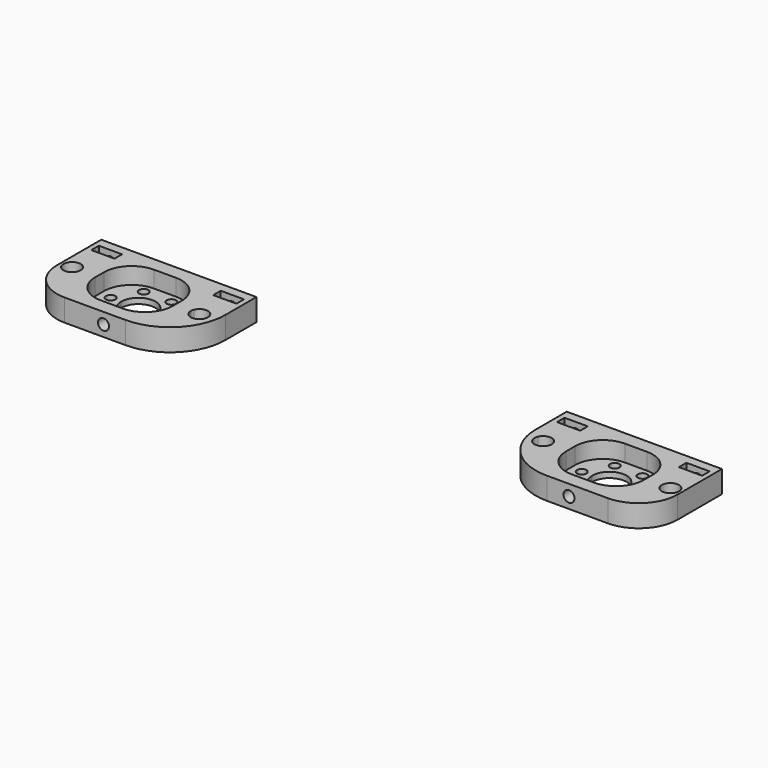
from build123d import *

# Parameters (mm, degrees)
F0_R      = 1.55
F0_R_2    = 0.85
F1_DEPTH  = 4
F2_R      = 10
F3_DEPTH  = 3
F4_R      = 5
F5_R      = 7
F6_R      = 1
F7_DEPTH  = 4
F8_W      = 4.2
F8_H      = 1.7
F9_DEPTH  = 4
F10_R     = 1
F11_DEPTH = 8
F13_ANGLE = 90


with BuildPart() as f1:
    # F0 (on Front) → F1 (new body)
    with BuildSketch(Plane.XZ):
        Polygon((0, 8.5), (0, 0), (28, 0), (28, 17), (0, 17), align=None)
        with BuildLine():
            ThreePointArc((4.4441371673, 8.5), (3.0157603503, 7.5518634968), (1.5873835334, 8.5))
            ThreePointArc((1.5873835334, 8.5), (2.7087457467, 10.6211534734), (4.5657603503, 9.1018634968))
            ThreePointArc((4.5657603503, 9.1018634968), (4.565229204, 9.0612892269), (4.5636361292, 9.0207427646))
            Line((4.5636361292, 9.0207427646), (7.5, 8.866854455))
            Line((7.5, 8.866854455), (7.5, 14.5))
            Line((7.5, 14.5), (21.5, 14.5))
            Line((21.5, 14.5), (21.5, 2.5))
            Line((21.5, 2.5), (7.5, 2.5))
            Line((7.5, 2.5), (7.5, 8.5))
            Line((7.5, 8.5), (4.4441371673, 8.5))
        make_face(mode=Mode.SUBTRACT)
        with Locations((25.9842396497, 9.1018634968)):
            Circle(F0_R, mode=Mode.SUBTRACT)
        Polygon((0, 8.5), (0, 0), (28, 0), (28, 17), (0, 17), align=None)
        with BuildLine():
            ThreePointArc((4.4441371673, 8.5), (3.0157603503, 7.5518634968), (1.5873835334, 8.5))
            ThreePointArc((1.5873835334, 8.5), (2.7087457467, 10.6211534734), (4.5657603503, 9.1018634968))
            ThreePointArc((4.5657603503, 9.1018634968), (4.565229204, 9.0612892269), (4.5636361292, 9.0207427646))
            Line((4.5636361292, 9.0207427646), (7.5, 8.866854455))
            Line((7.5, 8.866854455), (7.5, 14.5))
            Line((7.5, 14.5), (21.5, 14.5))
            Line((21.5, 14.5), (21.5, 2.5))
            Line((21.5, 2.5), (7.5, 2.5))
            Line((7.5, 2.5), (7.5, 8.5))
            Line((7.5, 8.5), (4.4441371673, 8.5))
        make_face(mode=Mode.SUBTRACT)
        with Locations((25.9842396497, 9.1018634968)):
            Circle(F0_R, mode=Mode.SUBTRACT)
        with BuildLine():
            Line((8.65, 8.5), (7.5, 8.5))
            Line((7.5, 8.5), (7.5, 2.5))
            Line((7.5, 2.5), (21.5, 2.5))
            Line((21.5, 2.5), (21.5, 14.5))
            Line((21.5, 14.5), (7.5, 14.5))
            Line((7.5, 14.5), (7.5, 8.866854455))
            Line((7.5, 8.866854455), (8.7060862677, 8.8036461521))
            ThreePointArc((8.7060862677, 8.8036461521), (9.5444855628, 9.3488351045), (10.3213042555, 8.7189961643))
            Line((10.3213042555, 8.7189961643), (11.4042484423, 8.6622414644))
            ThreePointArc((11.4042484423, 8.6622414644), (12.3661008153, 10.7486605501), (14.5, 11.6))
            ThreePointArc((14.5, 11.6), (16.6920310217, 10.6920310217), (17.6, 8.5))
            ThreePointArc((17.6, 8.5), (14.5, 5.4), (11.4, 8.5))
            Line((11.4, 8.5), (10.35, 8.5))
            ThreePointArc((10.35, 8.5), (9.5, 7.65), (8.65, 8.5))
        make_face()
        with Locations((12, 4.1698729811)):
            Circle(F0_R_2, mode=Mode.SUBTRACT)
        with Locations((17, 4.1698729811)):
            Circle(F0_R_2, mode=Mode.SUBTRACT)
        with Locations((12, 12.8301270189)):
            Circle(F0_R_2, mode=Mode.SUBTRACT)
        with Locations((19.5, 8.5)):
            Circle(F0_R_2, mode=Mode.SUBTRACT)
        with Locations((17, 12.8301270189)):
            Circle(F0_R_2, mode=Mode.SUBTRACT)
        with BuildLine():
            Line((8.65, 8.5), (7.5, 8.5))
            Line((7.5, 8.5), (7.5, 2.5))
            Line((7.5, 2.5), (21.5, 2.5))
            Line((21.5, 2.5), (21.5, 14.5))
            Line((21.5, 14.5), (7.5, 14.5))
            Line((7.5, 14.5), (7.5, 8.866854455))
            Line((7.5, 8.866854455), (8.7060862677, 8.8036461521))
            ThreePointArc((8.7060862677, 8.8036461521), (9.5444855628, 9.3488351045), (10.3213042555, 8.7189961643))
            Line((10.3213042555, 8.7189961643), (11.4042484423, 8.6622414644))
            ThreePointArc((11.4042484423, 8.6622414644), (12.3661008153, 10.7486605501), (14.5, 11.6))
            ThreePointArc((14.5, 11.6), (16.6920310217, 10.6920310217), (17.6, 8.5))
            ThreePointArc((17.6, 8.5), (14.5, 5.4), (11.4, 8.5))
            Line((11.4, 8.5), (10.35, 8.5))
            ThreePointArc((10.35, 8.5), (9.5, 7.65), (8.65, 8.5))
        make_face()
        with Locations((12, 4.1698729811)):
            Circle(F0_R_2, mode=Mode.SUBTRACT)
        with Locations((17, 4.1698729811)):
            Circle(F0_R_2, mode=Mode.SUBTRACT)
        with Locations((12, 12.8301270189)):
            Circle(F0_R_2, mode=Mode.SUBTRACT)
        with Locations((19.5, 8.5)):
            Circle(F0_R_2, mode=Mode.SUBTRACT)
        with Locations((17, 12.8301270189)):
            Circle(F0_R_2, mode=Mode.SUBTRACT)
        with BuildLine():
            ThreePointArc((4.5636361292, 9.0207427646), (4.5264929988, 8.7551837242), (4.4441371673, 8.5))
            Line((4.4441371673, 8.5), (7.5, 8.5))
            Line((7.5, 8.5), (7.5, 8.866854455))
            Line((7.5, 8.866854455), (4.5636361292, 9.0207427646))
        make_face()
        with BuildLine():
            Line((7.5, 8.866854455), (7.5, 8.5))
            Line((7.5, 8.5), (8.65, 8.5))
            ThreePointArc((8.65, 8.5), (8.6641391646, 8.6543912684), (8.7060862677, 8.8036461521))
            Line((8.7060862677, 8.8036461521), (7.5, 8.866854455))
        make_face()
        with BuildLine():
            ThreePointArc((10.3213042555, 8.7189961643), (10.3427955319, 8.6104341045), (10.35, 8.5))
            Line((10.35, 8.5), (11.4, 8.5))
            ThreePointArc((11.4, 8.5), (11.4010622926, 8.5811485398), (11.4042484423, 8.6622414644))
            Line((11.4042484423, 8.6622414644), (10.3213042555, 8.7189961643))
        make_face()
    extrude(amount=F1_DEPTH)

    # F2
    f2_edges = [f1.edges().sort_by_distance(p)[0] for p in [
        (0, -2, 17),
    ]]
    fillet(f2_edges, radius=F2_R)

    # F0 (on Front) → F3 (cut)
    with BuildSketch(Plane.XZ):
        with BuildLine():
            Line((8.65, 8.5), (7.5, 8.5))
            Line((7.5, 8.5), (7.5, 2.5))
            Line((7.5, 2.5), (21.5, 2.5))
            Line((21.5, 2.5), (21.5, 14.5))
            Line((21.5, 14.5), (7.5, 14.5))
            Line((7.5, 14.5), (7.5, 8.866854455))
            Line((7.5, 8.866854455), (8.7060862677, 8.8036461521))
            ThreePointArc((8.7060862677, 8.8036461521), (9.5444855628, 9.3488351045), (10.3213042555, 8.7189961643))
            Line((10.3213042555, 8.7189961643), (11.4042484423, 8.6622414644))
            ThreePointArc((11.4042484423, 8.6622414644), (12.3661008153, 10.7486605501), (14.5, 11.6))
            ThreePointArc((14.5, 11.6), (16.6920310217, 10.6920310217), (17.6, 8.5))
            ThreePointArc((17.6, 8.5), (14.5, 5.4), (11.4, 8.5))
            Line((11.4, 8.5), (10.35, 8.5))
            ThreePointArc((10.35, 8.5), (9.5, 7.65), (8.65, 8.5))
        make_face()
        with Locations((12, 4.1698729811)):
            Circle(F0_R_2, mode=Mode.SUBTRACT)
        with Locations((17, 4.1698729811)):
            Circle(F0_R_2, mode=Mode.SUBTRACT)
        with Locations((12, 12.8301270189)):
            Circle(F0_R_2, mode=Mode.SUBTRACT)
        with Locations((19.5, 8.5)):
            Circle(F0_R_2, mode=Mode.SUBTRACT)
        with Locations((17, 12.8301270189)):
            Circle(F0_R_2, mode=Mode.SUBTRACT)
        with BuildLine():
            Line((8.65, 8.5), (7.5, 8.5))
            Line((7.5, 8.5), (7.5, 2.5))
            Line((7.5, 2.5), (21.5, 2.5))
            Line((21.5, 2.5), (21.5, 14.5))
            Line((21.5, 14.5), (7.5, 14.5))
            Line((7.5, 14.5), (7.5, 8.866854455))
            Line((7.5, 8.866854455), (8.7060862677, 8.8036461521))
            ThreePointArc((8.7060862677, 8.8036461521), (9.5444855628, 9.3488351045), (10.3213042555, 8.7189961643))
            Line((10.3213042555, 8.7189961643), (11.4042484423, 8.6622414644))
            ThreePointArc((11.4042484423, 8.6622414644), (12.3661008153, 10.7486605501), (14.5, 11.6))
            ThreePointArc((14.5, 11.6), (16.6920310217, 10.6920310217), (17.6, 8.5))
            ThreePointArc((17.6, 8.5), (14.5, 5.4), (11.4, 8.5))
            Line((11.4, 8.5), (10.35, 8.5))
            ThreePointArc((10.35, 8.5), (9.5, 7.65), (8.65, 8.5))
        make_face()
        with Locations((12, 4.1698729811)):
            Circle(F0_R_2, mode=Mode.SUBTRACT)
        with Locations((17, 4.1698729811)):
            Circle(F0_R_2, mode=Mode.SUBTRACT)
        with Locations((12, 12.8301270189)):
            Circle(F0_R_2, mode=Mode.SUBTRACT)
        with Locations((19.5, 8.5)):
            Circle(F0_R_2, mode=Mode.SUBTRACT)
        with Locations((17, 12.8301270189)):
            Circle(F0_R_2, mode=Mode.SUBTRACT)
        with BuildLine():
            Line((7.5, 8.866854455), (7.5, 8.5))
            Line((7.5, 8.5), (8.65, 8.5))
            ThreePointArc((8.65, 8.5), (8.6641391646, 8.6543912684), (8.7060862677, 8.8036461521))
            Line((8.7060862677, 8.8036461521), (7.5, 8.866854455))
        make_face()
        with BuildLine():
            ThreePointArc((10.3213042555, 8.7189961643), (10.3427955319, 8.6104341045), (10.35, 8.5))
            Line((10.35, 8.5), (11.4, 8.5))
            ThreePointArc((11.4, 8.5), (11.4010622926, 8.5811485398), (11.4042484423, 8.6622414644))
            Line((11.4042484423, 8.6622414644), (10.3213042555, 8.7189961643))
        make_face()
    extrude(amount=F3_DEPTH, mode=Mode.SUBTRACT)

    # F4
    f4_edges = [f1.edges().sort_by_distance(p)[0] for p in [
        (21.5, -1.5, 14.5),
        (21.5, -1.5, 2.5),
        (7.5, -1.5, 2.5),
        (7.5, -1.5, 14.5),
    ]]
    fillet(f4_edges, radius=F4_R)

    # F5
    f5_edges = [f1.edges().sort_by_distance(p)[0] for p in [
        (28, -2, 17),
    ]]
    fillet(f5_edges, radius=F5_R)

    # F6 (on face) → F7 (cut)
    with BuildSketch(Plane(origin=(0, 0, 0), x_dir=(1, 0, 0), z_dir=(0, 0, -1))):
        with Locations((3.0157603503, 2)):
            Circle(F6_R)
        with Locations((25.0157603503, 2)):
            Circle(F6_R)
    extrude(amount=-F7_DEPTH, mode=Mode.SUBTRACT)

    # F8 (on face) → F9 (cut)
    with BuildSketch(Plane.XZ.offset(4)):
        with Locations((3.0157603503, 2.5)):
            Rectangle(F8_W, F8_H)
        with Locations((25.0157603503, 2.5)):
            Rectangle(F8_W, F8_H)
    extrude(amount=-F9_DEPTH, mode=Mode.SUBTRACT)

    # F10 (on face) → F11 (cut)
    with BuildSketch(Plane.XY.offset(17)):
        with Locations((14, -2)):
            Circle(F10_R)
    extrude(amount=-F11_DEPTH, mode=Mode.SUBTRACT)


with BuildPart() as f1_1:
    # F12: moved
    add(f1.part.moved(Location((28, 0, 0))))


with BuildPart() as f1_2:
    # F13: moved
    add(f1_1.part.rotate(Axis((14, 0, 0), (1, 0, 0)), F13_ANGLE))


with BuildPart() as f14_1:
    # F14: instance of F1
    add(f1_2.part.mirror(Plane.YZ))


solid = Compound([f1_2.part, f14_1.part])
